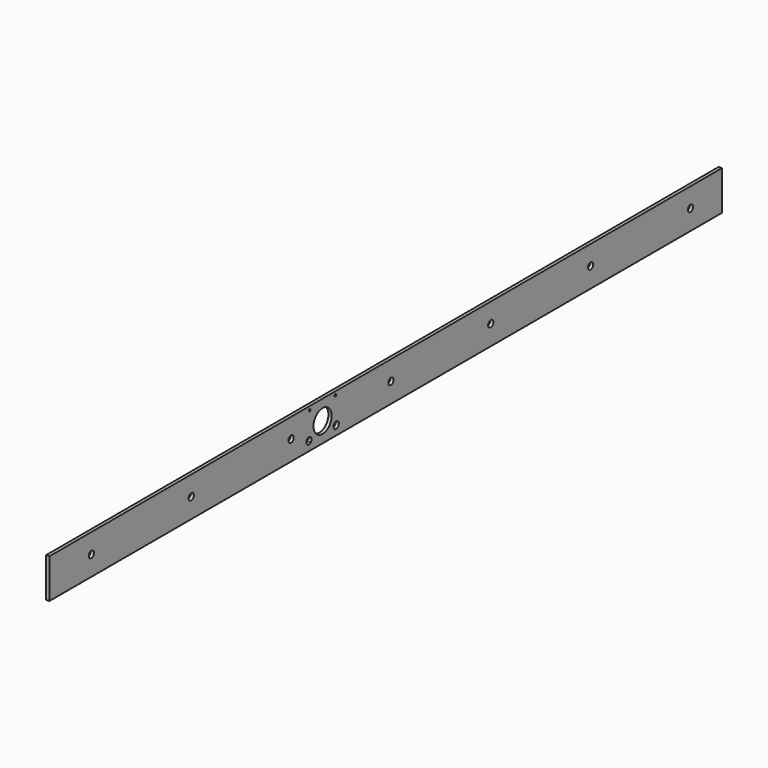
from build123d import *

# Parameters (mm, degrees)
F1_DEPTH = 812.8
F2_R     = 10.9982
F2_R_2   = 1.0922
F3_DEPTH = 25.4
F4_R     = 3.175
F5_DEPTH = 25.4


with BuildPart() as f1:
    # F0 (on Front) → F1 (new body)
    with BuildSketch(Plane.XZ):
        Polygon((0, -3.175), (0, 0), (0, 34.925), (-3.175, 34.925), (-3.175, -3.175), align=None)
    extrude(amount=F1_DEPTH)

    # F2 (on face) → F3 (cut)
    with BuildSketch(Plane.YZ):
        with Locations((-482.6, 15.875)):
            Circle(F2_R)
        with BuildLine():
            ThreePointArc((-497.0280745814, 3.3178743146), (-496.2211647499, 4.3977088788), (-495.935, 5.715))
            ThreePointArc((-495.935, 5.715), (-501.5319671306, 7.7679735064), (-498.5899292713, 2.5828838723))
            ThreePointArc((-498.5899292713, 2.5828838723), (-498.664634248, 4.4872772922), (-497.0018, 3.556))
            ThreePointArc((-497.0018, 3.556), (-497.0083885174, 3.4362145714), (-497.0280745814, 3.3178743146))
        make_face()
        with BuildLine():
            ThreePointArc((-497.0018, 3.556), (-498.664634248, 4.4872772922), (-498.5899292713, 2.5828838723))
            ThreePointArc((-498.5899292713, 2.5828838723), (-497.7580944097, 2.8422006205), (-497.0280745814, 3.3178743146))
            ThreePointArc((-497.0280745814, 3.3178743146), (-497.0083885174, 3.4362145714), (-497.0018, 3.556))
        make_face()
        with BuildLine():
            ThreePointArc((-497.0280745814, 3.3178743146), (-497.7580944097, 2.8422006205), (-498.5899292713, 2.5828838723))
            ThreePointArc((-498.5899292713, 2.5828838723), (-497.6289444769, 2.5677570135), (-497.0280745814, 3.3178743146))
        make_face()
        with BuildLine():
            ThreePointArc((-466.6100707287, 2.5828838723), (-464.0370264936, 3.2930328694), (-462.915, 5.715))
            ThreePointArc((-462.915, 5.715), (-467.4072911212, 8.6038352501), (-468.1719254186, 3.3178743146))
            ThreePointArc((-468.1719254186, 3.3178743146), (-467.2257854286, 4.6416114826), (-466.0138, 3.556))
            ThreePointArc((-466.0138, 3.556), (-466.1747227078, 2.985365752), (-466.6100707287, 2.5828838723))
        make_face()
        with BuildLine():
            ThreePointArc((-466.0138, 3.556), (-467.2257854286, 4.6416114826), (-468.1719254186, 3.3178743146))
            ThreePointArc((-468.1719254186, 3.3178743146), (-467.4419055903, 2.8422006205), (-466.6100707287, 2.5828838723))
            ThreePointArc((-466.6100707287, 2.5828838723), (-466.1747227078, 2.985365752), (-466.0138, 3.556))
        make_face()
        with BuildLine():
            ThreePointArc((-466.6100707287, 2.5828838723), (-467.4419055903, 2.8422006205), (-468.1719254186, 3.3178743146))
            ThreePointArc((-468.1719254186, 3.3178743146), (-467.5710555231, 2.5677570135), (-466.6100707287, 2.5828838723))
        make_face()
        with Locations((-498.094, 31.369)):
            Circle(F2_R_2)
        with Locations((-467.106, 31.369)):
            Circle(F2_R_2)
    extrude(amount=-F3_DEPTH, mode=Mode.SUBTRACT)

    # F4 (on face) → F5 (cut)
    with BuildSketch(Plane(origin=(-3.175, 0, 0), x_dir=(0, -1, 0), z_dir=(-1, 0, 0))):
        with Locations((762, 15.875)):
            Circle(F4_R)
        with Locations((641.3500135583, 15.9321981283)):
            Circle(F4_R)
        with Locations((520.7000271167, 15.9893962565)):
            Circle(F4_R)
        with Locations((400.050040675, 16.0465943848)):
            Circle(F4_R)
        with Locations((279.4000542333, 16.103792513)):
            Circle(F4_R)
        with Locations((158.7500677917, 16.1609906413)):
            Circle(F4_R)
        with Locations((38.10008135, 16.2181887695)):
            Circle(F4_R)
    extrude(amount=-F5_DEPTH, mode=Mode.SUBTRACT)


solid = f1.part
